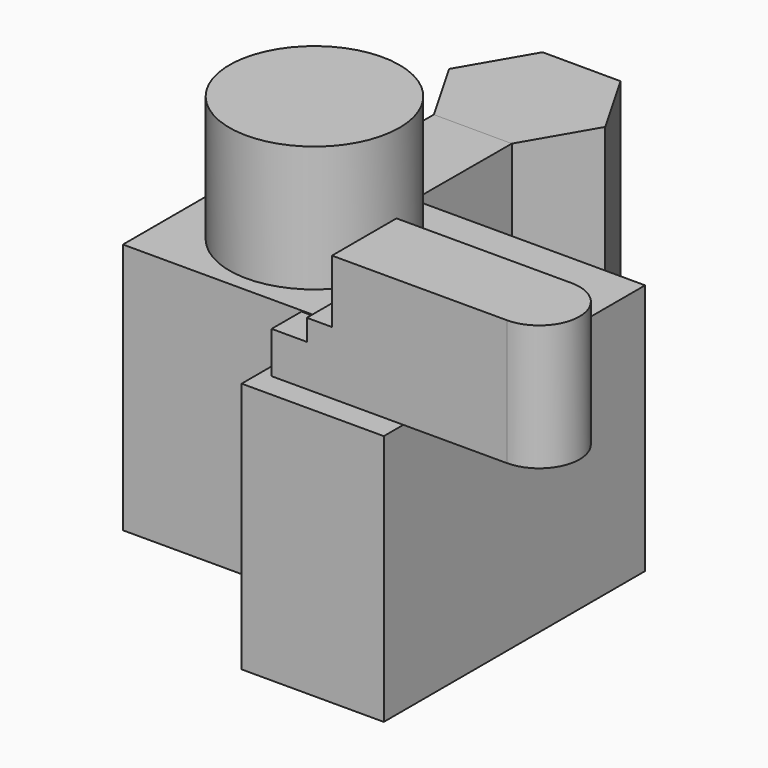
from build123d import *

# Parameters (mm, degrees)
F0_W           = 71.8421097845
F0_H           = 39.9122815579
F1_DEPTH       = 25
F1_DEPTH_BACK  = 25
F3_W           = 28.2456167042
F3_H           = 50
F4_DEPTH       = 25
F2_W           = 15.5530497432
F2_H           = 17.180994153
F5_DEPTH       = 50.001
F6_R           = 16.8971261604
F7_DEPTH       = 25
F8_W           = 14.1789838672
F8_H           = 16.0250272602
F9_DEPTH       = 25
F10_W          = 16.0250272602
F10_H          = 12.5
F11_DEPTH      = 5
F12_W          = 7.4241384864
F12_H          = 8.2832634449
F13_DEPTH      = 7
F14_W          = 7
F14_H          = 4.1416317225
F15_DEPTH      = 7
F16_W          = 8.0125136301
F16_H          = 6.25
F17_DEPTH      = 3
F18_W          = 15.5530497432
F18_H          = 5.5617239326
F19_DEPTH      = 4
F20_W          = 3.3075883985
F20_H          = 17.482355237
F21_DEPTH      = 5
F22_W          = 12.3113431036
F22_H          = 2.9412191361
F22_W_2        = 3.3075883985
F23_DEPTH      = 5
F24_W          = 3.0662361532
F24_H          = 14.2397750169
F24_H_2        = 2.9412191361
F25_DEPTH      = 5
F26_W          = 12.6295108348
F26_H          = 3.8421889767
F26_W_2        = 3.0662361532
F27_DEPTH      = 5
F28_W          = 6.431021262
F28_H          = 6.646867469
F29_DEPTH      = 44.9710970203
F32_DEPTH      = 25
F32_DEPTH_BACK = 25
F33_DEPTH      = 45.28975


with BuildPart() as f1:
    # F0 (on Top) → F1 (new body, two sides)
    with BuildSketch(Plane.XY) as f1_sk:
        with Locations((10.1315798238, -6.2938602641)):
            Rectangle(F0_W, F0_H)
    extrude(amount=F1_DEPTH)
    extrude(f1_sk.sketch, amount=-F1_DEPTH_BACK)

    # F3 (on face) → F4 (join)
    with BuildSketch(Plane.XZ.offset(26.2500010431)):
        with Locations((31.9298263639, 0)):
            Rectangle(F3_W, F3_H)
    extrude(amount=F4_DEPTH)

    # F2 (on face) → F5 (cut, through all)
    with BuildSketch(Plane.XY.offset(25)):
        with Locations((26.9571468234, -8.5904970765)):
            Rectangle(F2_W, F2_H)
        with Locations((26.9571468234, -8.5904970765)):
            Rectangle(F2_W, F2_H)
    extrude(amount=-F5_DEPTH, mode=Mode.SUBTRACT)

    # F6 (on face) → F7 (join)
    with BuildSketch(Plane.XY.offset(25)):
        with Locations((-3.6842101254, -6.2938597985)):
            Circle(F6_R)
    extrude(amount=F7_DEPTH)

    # F8 (on face) → F9 (join)
    with BuildSketch(Plane.XY.offset(25)):
        with BuildLine():
            Line((66.6513666511, -30.3681883961), (46.052634716, -30.3681883961))
            Line((46.052634716, -30.3681883961), (46.052634716, -46.3932156563))
            Line((46.052634716, -46.3932156563), (66.6513666511, -46.3932156563))
            ThreePointArc((66.6513666511, -46.3932156563), (74.6638802812, -38.3807020262), (66.6513666511, -30.3681883961))
        make_face()
        with Locations((38.9631427824, -38.3807020262)):
            Rectangle(F8_W, F8_H)
    extrude(amount=F9_DEPTH)

    # F10 (on face) → F11 (join)
    with BuildSketch(Plane(origin=(31.8736508489, 0, 0), x_dir=(0, -1, 0), z_dir=(-1, 0, 0))):
        with Locations((38.3807020262, 31.25)):
            Rectangle(F10_W, F10_H)
    extrude(amount=F11_DEPTH)

    # F12 (on face) → F13 (join)
    with BuildSketch(Plane(origin=(26.8736508489, 0, 0), x_dir=(0, -1, 0), z_dir=(-1, 0, 0))):
        with Locations((42.6811464131, 29.1416317225)):
            Rectangle(F12_W, F12_H)
    extrude(amount=F13_DEPTH)

    # F14 (on face) → F15 (join)
    with BuildSketch(Plane(origin=(0, -38.9690771699, 0), x_dir=(-1, 0, 0), z_dir=(0, 1, 0))):
        with Locations((-23.3736508489, 27.0708158612)):
            Rectangle(F14_W, F14_H)
    extrude(amount=F15_DEPTH)

    # F16 (on face) → F17 (join)
    with BuildSketch(Plane(origin=(31.8736508489, 0, 0), x_dir=(0, -1, 0), z_dir=(-1, 0, 0))):
        with Locations((34.3744452111, 40.625)):
            Rectangle(F16_W, F16_H)
    extrude(amount=F17_DEPTH)

    # F18 (on face) → F19 (join)
    with BuildSketch(Plane.XZ):
        with Locations((26.9571468234, -22.2191380337)):
            Rectangle(F18_W, F18_H)
    extrude(amount=F19_DEPTH)

    # F20 (on face) → F21 (join)
    with BuildSketch(Plane.XY.offset(-19.4382760674)):
        with Locations((33.0798774958, -8.7411776185)):
            Rectangle(F20_W, F20_H)
    extrude(amount=F21_DEPTH)

    # F22 (on face) → F23 (join)
    with BuildSketch(Plane.XY.offset(-14.4382760674)):
        with Locations((25.2704117447, -15.710384585)):
            Rectangle(F22_W, F22_H)
        with Locations((33.0798774958, -15.710384585)):
            Rectangle(F22_W_2, F22_H)
    extrude(amount=F23_DEPTH)

    # F24 (on face) → F25 (join)
    with BuildSketch(Plane.XY.offset(-9.4382760674)):
        with Locations((20.7137400284, -7.1198875085)):
            Rectangle(F24_W, F24_H)
        with Locations((20.7137400284, -15.710384585)):
            Rectangle(F24_W, F24_H_2)
    extrude(amount=F25_DEPTH)

    # F26 (on face) → F27 (join)
    with BuildSketch(Plane.XY.offset(-4.4382760674)):
        with Locations((28.5616135225, -1.9210944884)):
            Rectangle(F26_W, F26_H)
        with Locations((20.7137400284, -1.9210944884)):
            Rectangle(F26_W_2, F26_H)
    extrude(amount=F27_DEPTH)

    # F28 (on face) → F29 (cut, through all)
    with BuildSketch(Plane.YZ.offset(19.1806219518)):
        with Locations((-10.1598070469, -21.6765662655)):
            Rectangle(F28_W, F28_H)
    extrude(amount=-F29_DEPTH, mode=Mode.SUBTRACT)


with BuildPart() as f32:
    # F31 (on Top) → F32 (new body, two sides)
    with BuildSketch(Plane.XY) as f32_sk:
        Polygon((0.153236081, 37.9308532652), (7.9653235254, 51.367640895), (0.2347678149, 64.8515008933), (-15.30787534, 64.8985732618), (-23.1199627844, 51.461785632), (-15.3894070739, 37.9779256337), align=None)
    extrude(amount=F32_DEPTH)
    extrude(f32_sk.sketch, amount=-F32_DEPTH_BACK)


with BuildPart() as f33:
    # F33 (new): a face of the model
    f33_faces = [f32.part.faces().sort_by_distance(p)[0] for p in [
        (-7.6180854964, 37.9543894494, 0),
    ]]
    extrude(f33_faces, amount=F33_DEPTH)


solid = Compound([f1.part, f32.part, f33.part])
